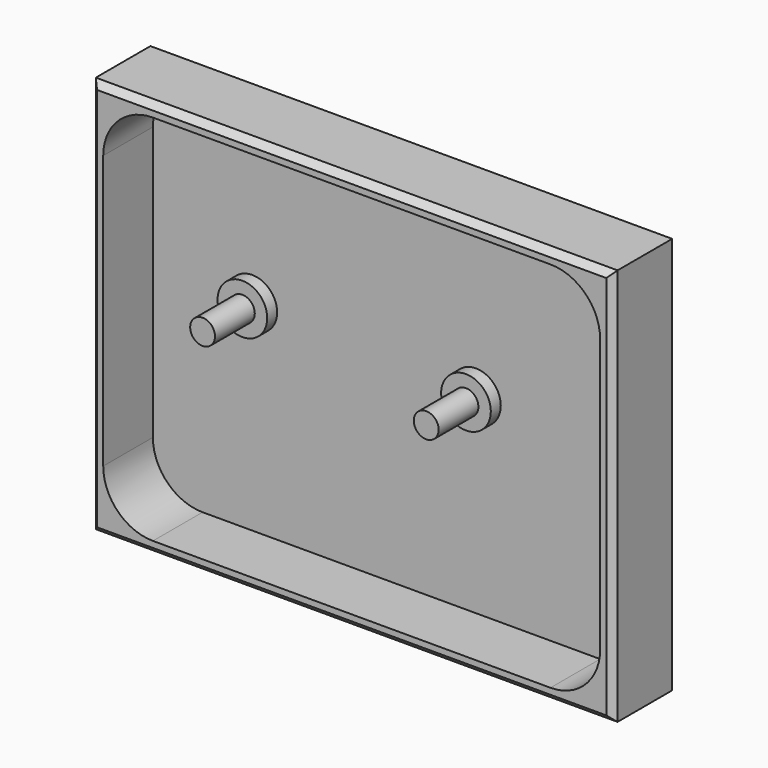
from build123d import *

# Parameters (mm, degrees)
F0_W     = 133.35
F0_H     = 101.6
F1_DEPTH = 19.05
F2_T     = -3.175
F3_R     = 6.35
F4_DEPTH = 3.175
F5_R     = 3.175
F6_DEPTH = 15.875
F7_R     = 12.7
F8_SIZE  = 1.6002


with BuildPart() as f1:
    # F0 (on Front) → F1 (new body)
    with BuildSketch(Plane.XZ):
        with Locations((66.675, 50.8)):
            Rectangle(F0_W, F0_H)
    extrude(amount=F1_DEPTH)

    # F2
    f2_openings = [f1.faces().sort_by_distance(p)[0] for p in [
        (66.675, -19.05, 50.8),
    ]]
    offset(amount=F2_T, openings=f2_openings)

    # F3 (on face) → F4 (join)
    with BuildSketch(Plane.XZ.offset(3.175)):
        with Locations((28.575, 54.3453005208)):
            Circle(F3_R)
        with Locations((85.725, 51.9215266299)):
            Circle(F3_R)
    extrude(amount=F4_DEPTH)

    # F5 (on face) → F6 (join)
    with BuildSketch(Plane.XZ.offset(3.175)):
        with Locations((28.575, 54.3453005208)):
            Circle(F5_R)
        with Locations((85.725, 51.9215266299)):
            Circle(F5_R)
    extrude(amount=F6_DEPTH)

    # F7
    f7_edges = [f1.edges().sort_by_distance(p)[0] for p in [
        (3.175, -11.1125, 3.175),
        (3.175, -11.1125, 98.425),
        (130.175, -11.1125, 3.175),
        (130.175, -11.1125, 98.425),
    ]]
    fillet(f7_edges, radius=F7_R)

    # F8
    f8_edges = [f1.edges().sort_by_distance(p)[0] for p in [
        (133.35, -19.05, 50.8),
        (66.675, -19.05, 0),
        (0, -19.05, 50.8),
        (66.675, -19.05, 101.6),
    ]]
    chamfer(f8_edges, length=F8_SIZE)


solid = f1.part
